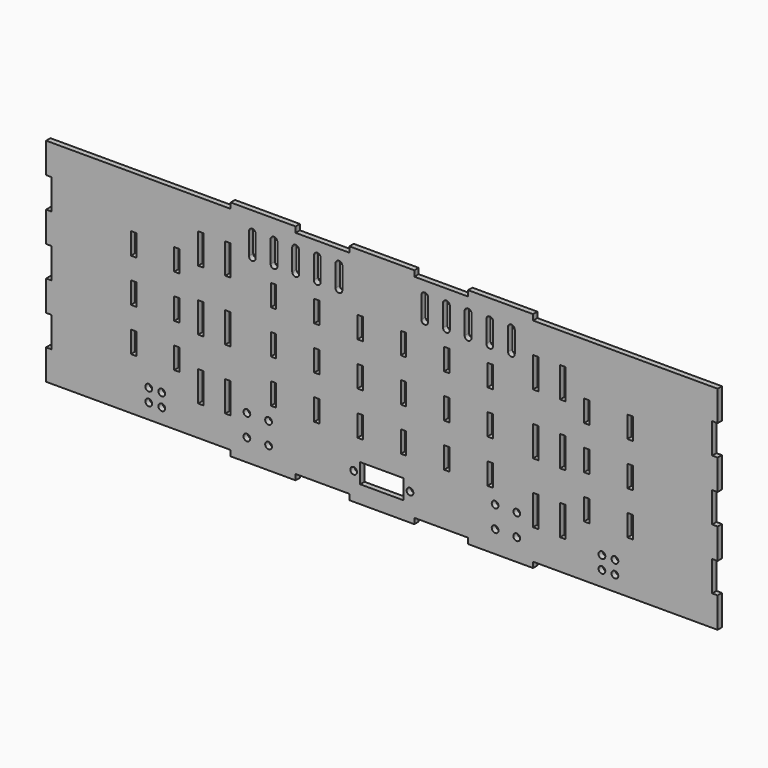
from build123d import *

# Parameters (mm, degrees)
F0_R     = 1.984375
F0_W     = 3.175
F0_H     = 17.78
F0_H_2   = 12.7
F0_W_2   = 25.4
F0_H_3   = 11.43
F1_DEPTH = 3.175


with BuildPart() as f1:
    # F0 (on Front) → F1 (new body)
    with BuildSketch(Plane.XZ):
        Polygon((-88.646, -65.532), (-50.546, -65.532), (-50.546, -62.23), (-19.05, -62.23), (-19.05, -65.532), (19.05, -65.532), (19.05, -62.23), (50.546, -62.23), (50.546, -65.532), (88.646, -65.532), (88.646, -62.23), (107.696, -62.23), (120.142, -62.23), (196.85, -62.23), (196.85, -44.45), (193.675, -44.45), (193.675, -26.67), (196.85, -26.67), (196.85, -8.89), (193.675, -8.89), (193.675, 8.89), (196.85, 8.89), (196.85, 26.67), (193.675, 26.67), (193.675, 44.45), (196.85, 44.45), (196.85, 62.23), (120.142, 62.23), (107.696, 62.23), (88.646, 62.23), (88.646, 65.532), (50.546, 65.532), (50.546, 62.23), (19.05, 62.23), (19.05, 65.532), (-19.05, 65.532), (-19.05, 62.23), (-50.546, 62.23), (-50.546, 65.532), (-88.646, 65.532), (-88.646, 62.23), (-107.696, 62.23), (-196.85, 62.23), (-196.85, 44.45), (-193.675, 44.45), (-193.675, 26.67), (-196.85, 26.67), (-196.85, 8.89), (-193.675, 8.89), (-193.675, -8.89), (-196.85, -8.89), (-196.85, -26.67), (-193.675, -26.67), (-193.675, -44.45), (-196.85, -44.45), (-196.85, -62.23), (-107.696, -62.23), (-88.646, -62.23), align=None)
        with Locations((-136.652, -53.34)):
            Circle(F0_R, mode=Mode.SUBTRACT)
        with Locations((-129.032, -53.34)):
            Circle(F0_R, mode=Mode.SUBTRACT)
        with Locations((-136.652, -45.72)):
            Circle(F0_R, mode=Mode.SUBTRACT)
        with Locations((-129.032, -45.72)):
            Circle(F0_R, mode=Mode.SUBTRACT)
        with Locations((-106.1085, -35.56)):
            Rectangle(F0_W, F0_H, mode=Mode.SUBTRACT)
        with Locations((-79.121, -52.705)):
            Circle(F0_R, mode=Mode.SUBTRACT)
        with Locations((-66.421, -52.705)):
            Circle(F0_R, mode=Mode.SUBTRACT)
        with Locations((-16.51, -49.53)):
            Circle(F0_R, mode=Mode.SUBTRACT)
        with Locations((-79.121, -40.005)):
            Circle(F0_R, mode=Mode.SUBTRACT)
        with Locations((-90.2335, -35.56)):
            Rectangle(F0_W, F0_H, mode=Mode.SUBTRACT)
        with Locations((-66.421, -40.005)):
            Circle(F0_R, mode=Mode.SUBTRACT)
        with Locations((-145.542, -25.4)):
            Rectangle(F0_W, F0_H_2, mode=Mode.SUBTRACT)
        with Locations((-120.142, -25.4)):
            Rectangle(F0_W, F0_H_2, mode=Mode.SUBTRACT)
        with Locations((-63.5, -25.4)):
            Rectangle(F0_W, F0_H_2, mode=Mode.SUBTRACT)
        with Locations((-38.1, -25.4)):
            Rectangle(F0_W, F0_H_2, mode=Mode.SUBTRACT)
        with Locations((-12.7, -25.4)):
            Rectangle(F0_W, F0_H_2, mode=Mode.SUBTRACT)
        with Locations((0, -49.53)):
            Rectangle(F0_W_2, F0_H_3, mode=Mode.SUBTRACT)
        with Locations((16.51, -49.53)):
            Circle(F0_R, mode=Mode.SUBTRACT)
        with Locations((66.421, -52.705)):
            Circle(F0_R, mode=Mode.SUBTRACT)
        with Locations((79.121, -52.705)):
            Circle(F0_R, mode=Mode.SUBTRACT)
        with Locations((66.421, -40.005)):
            Circle(F0_R, mode=Mode.SUBTRACT)
        with Locations((79.121, -40.005)):
            Circle(F0_R, mode=Mode.SUBTRACT)
        with Locations((90.2335, -35.56)):
            Rectangle(F0_W, F0_H, mode=Mode.SUBTRACT)
        with Locations((129.032, -53.34)):
            Circle(F0_R, mode=Mode.SUBTRACT)
        with Locations((136.652, -53.34)):
            Circle(F0_R, mode=Mode.SUBTRACT)
        with Locations((129.032, -45.72)):
            Circle(F0_R, mode=Mode.SUBTRACT)
        with Locations((136.652, -45.72)):
            Circle(F0_R, mode=Mode.SUBTRACT)
        with Locations((106.1085, -35.56)):
            Rectangle(F0_W, F0_H, mode=Mode.SUBTRACT)
        with Locations((12.7, -25.4)):
            Rectangle(F0_W, F0_H_2, mode=Mode.SUBTRACT)
        with Locations((38.1, -25.4)):
            Rectangle(F0_W, F0_H_2, mode=Mode.SUBTRACT)
        with Locations((63.5, -25.4)):
            Rectangle(F0_W, F0_H_2, mode=Mode.SUBTRACT)
        with Locations((120.142, -25.4)):
            Rectangle(F0_W, F0_H_2, mode=Mode.SUBTRACT)
        with Locations((145.542, -25.4)):
            Rectangle(F0_W, F0_H_2, mode=Mode.SUBTRACT)
        with Locations((-145.542, 0)):
            Rectangle(F0_W, F0_H_2, mode=Mode.SUBTRACT)
        with Locations((-120.142, 0)):
            Rectangle(F0_W, F0_H_2, mode=Mode.SUBTRACT)
        with Locations((-106.1085, 0)):
            Rectangle(F0_W, F0_H, mode=Mode.SUBTRACT)
        with Locations((-145.542, 25.4)):
            Rectangle(F0_W, F0_H_2, mode=Mode.SUBTRACT)
        with Locations((-120.142, 25.4)):
            Rectangle(F0_W, F0_H_2, mode=Mode.SUBTRACT)
        with Locations((-90.2335, 0)):
            Rectangle(F0_W, F0_H, mode=Mode.SUBTRACT)
        with Locations((-63.5, 0)):
            Rectangle(F0_W, F0_H_2, mode=Mode.SUBTRACT)
        with Locations((-38.1, 0)):
            Rectangle(F0_W, F0_H_2, mode=Mode.SUBTRACT)
        with Locations((-12.7, 0)):
            Rectangle(F0_W, F0_H_2, mode=Mode.SUBTRACT)
        with Locations((-63.5, 25.4)):
            Rectangle(F0_W, F0_H_2, mode=Mode.SUBTRACT)
        with Locations((-38.1, 25.4)):
            Rectangle(F0_W, F0_H_2, mode=Mode.SUBTRACT)
        with Locations((-12.7, 25.4)):
            Rectangle(F0_W, F0_H_2, mode=Mode.SUBTRACT)
        with Locations((-106.1085, 35.56)):
            Rectangle(F0_W, F0_H, mode=Mode.SUBTRACT)
        with Locations((-90.2335, 35.56)):
            Rectangle(F0_W, F0_H, mode=Mode.SUBTRACT)
        with BuildLine():
            ThreePointArc((-77.930375, 54.102), (-75.946, 56.086375), (-73.961625, 54.102))
            Line((-73.961625, 54.102), (-73.961625, 41.402))
            ThreePointArc((-73.961625, 41.402), (-75.946, 39.417625), (-77.930375, 41.402))
            Line((-77.930375, 41.402), (-77.930375, 54.102))
        make_face(mode=Mode.SUBTRACT)
        with BuildLine():
            ThreePointArc((-65.230375, 54.102), (-63.246, 56.086375), (-61.261625, 54.102))
            Line((-61.261625, 54.102), (-61.261625, 41.402))
            ThreePointArc((-61.261625, 41.402), (-63.246, 39.417625), (-65.230375, 41.402))
            Line((-65.230375, 41.402), (-65.230375, 54.102))
        make_face(mode=Mode.SUBTRACT)
        with BuildLine():
            ThreePointArc((-52.530375, 54.102), (-50.546, 56.086375), (-48.561625, 54.102))
            Line((-48.561625, 54.102), (-48.561625, 41.402))
            ThreePointArc((-48.561625, 41.402), (-50.546, 39.417625), (-52.530375, 41.402))
            Line((-52.530375, 41.402), (-52.530375, 54.102))
        make_face(mode=Mode.SUBTRACT)
        with BuildLine():
            ThreePointArc((-39.830375, 54.102), (-37.846, 56.086375), (-35.861625, 54.102))
            Line((-35.861625, 54.102), (-35.861625, 41.402))
            ThreePointArc((-35.861625, 41.402), (-37.846, 39.417625), (-39.830375, 41.402))
            Line((-39.830375, 41.402), (-39.830375, 54.102))
        make_face(mode=Mode.SUBTRACT)
        with BuildLine():
            ThreePointArc((-27.130375, 54.102), (-25.146, 56.086375), (-23.161625, 54.102))
            Line((-23.161625, 54.102), (-23.161625, 41.402))
            ThreePointArc((-23.161625, 41.402), (-25.146, 39.417625), (-27.130375, 41.402))
            Line((-27.130375, 41.402), (-27.130375, 54.102))
        make_face(mode=Mode.SUBTRACT)
        with Locations((12.7, 0)):
            Rectangle(F0_W, F0_H_2, mode=Mode.SUBTRACT)
        with Locations((38.1, 0)):
            Rectangle(F0_W, F0_H_2, mode=Mode.SUBTRACT)
        with Locations((63.5, 0)):
            Rectangle(F0_W, F0_H_2, mode=Mode.SUBTRACT)
        with Locations((90.2335, 0)):
            Rectangle(F0_W, F0_H, mode=Mode.SUBTRACT)
        with Locations((12.7, 25.4)):
            Rectangle(F0_W, F0_H_2, mode=Mode.SUBTRACT)
        with Locations((38.1, 25.4)):
            Rectangle(F0_W, F0_H_2, mode=Mode.SUBTRACT)
        with Locations((63.5, 25.4)):
            Rectangle(F0_W, F0_H_2, mode=Mode.SUBTRACT)
        with Locations((106.1085, 0)):
            Rectangle(F0_W, F0_H, mode=Mode.SUBTRACT)
        with Locations((120.142, 0)):
            Rectangle(F0_W, F0_H_2, mode=Mode.SUBTRACT)
        with Locations((145.542, 0)):
            Rectangle(F0_W, F0_H_2, mode=Mode.SUBTRACT)
        with Locations((120.142, 25.4)):
            Rectangle(F0_W, F0_H_2, mode=Mode.SUBTRACT)
        with Locations((145.542, 25.4)):
            Rectangle(F0_W, F0_H_2, mode=Mode.SUBTRACT)
        with BuildLine():
            Line((23.161625, 41.402), (23.161625, 54.102))
            ThreePointArc((23.161625, 54.102), (25.146, 56.086375), (27.130375, 54.102))
            Line((27.130375, 54.102), (27.130375, 41.402))
            ThreePointArc((27.130375, 41.402), (25.146, 39.417625), (23.161625, 41.402))
        make_face(mode=Mode.SUBTRACT)
        with BuildLine():
            Line((39.830375, 54.102), (39.830375, 41.402))
            ThreePointArc((39.830375, 41.402), (37.846, 39.417625), (35.861625, 41.402))
            Line((35.861625, 41.402), (35.861625, 54.102))
            ThreePointArc((35.861625, 54.102), (37.846, 56.086375), (39.830375, 54.102))
        make_face(mode=Mode.SUBTRACT)
        with Locations((90.2335, 35.56)):
            Rectangle(F0_W, F0_H, mode=Mode.SUBTRACT)
        with BuildLine():
            Line((48.561625, 41.402), (48.561625, 54.102))
            ThreePointArc((48.561625, 54.102), (50.546, 56.086375), (52.530375, 54.102))
            Line((52.530375, 54.102), (52.530375, 41.402))
            ThreePointArc((52.530375, 41.402), (50.546, 39.417625), (48.561625, 41.402))
        make_face(mode=Mode.SUBTRACT)
        with BuildLine():
            Line((61.261625, 41.402), (61.261625, 54.102))
            ThreePointArc((61.261625, 54.102), (63.246, 56.086375), (65.230375, 54.102))
            Line((65.230375, 54.102), (65.230375, 41.402))
            ThreePointArc((65.230375, 41.402), (63.246, 39.417625), (61.261625, 41.402))
        make_face(mode=Mode.SUBTRACT)
        with BuildLine():
            Line((73.961625, 41.402), (73.961625, 54.102))
            ThreePointArc((73.961625, 54.102), (75.946, 56.086375), (77.930375, 54.102))
            Line((77.930375, 54.102), (77.930375, 41.402))
            ThreePointArc((77.930375, 41.402), (75.946, 39.417625), (73.961625, 41.402))
        make_face(mode=Mode.SUBTRACT)
        with Locations((106.1085, 35.56)):
            Rectangle(F0_W, F0_H, mode=Mode.SUBTRACT)
    extrude(amount=F1_DEPTH)


solid = f1.part
